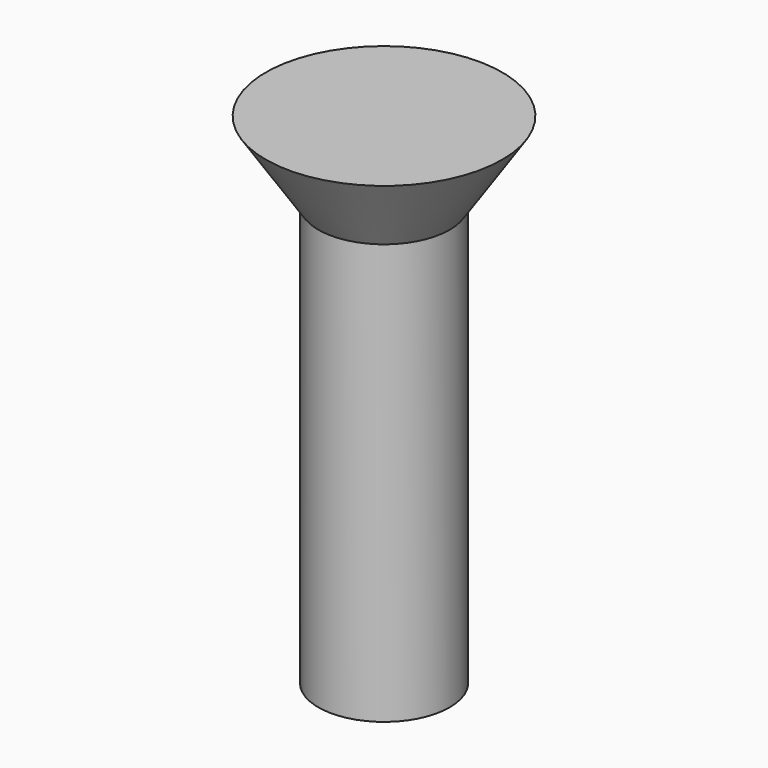
from build123d import *

# Parameters (mm, degrees)
CYLINDER011_R                   = 2.5
CYLINDER011_DEPTH               = 16
FUSION001018017_PLACEMENT_ANGLE = 180
CLONE024_PLACEMENT_ANGLE        = 180


with BuildPart() as cone003:
    # Cone003 → Cone003 (revolve)
    with BuildSketch(Plane(origin=(0, 0, -3), x_dir=(1, 0, 0), z_dir=(0, -1, 0))):
        Polygon((0, 0), (4.5, 0), (2.5, 3), (0, 3), align=None)
    revolve(axis=Axis((0, 0, -3), (0, 0, 1)))


with BuildPart() as obj1:
    # Cylinder011 → Cylinder011 (new body)
    with BuildSketch(Plane.XY):
        Circle(CYLINDER011_R)
    extrude(amount=CYLINDER011_DEPTH)

    # Fusion001018017: union Cone003
    add(cone003.part)


with BuildPart() as obj1_1:
    # Fusion001018017 placement: moved
    add(obj1.part.moved(Location((45, 15, 21))).rotate(Axis((45, 15, 21), (0, 1, 0)), FUSION001018017_PLACEMENT_ANGLE))


with BuildPart() as obj1_2:
    # Clone024 placement: moved
    add(obj1_1.part.moved(Location((90, 270, 0))).rotate(Axis((90, 270, 0), (0, 0, 1)), CLONE024_PLACEMENT_ANGLE))


with BuildPart() as obj1_3:
    # Clone032 placement: moved
    add(obj1_2.part.moved(Location((270, 0, 0))))


with BuildPart() as obj1_4:
    # Clone033 placement: moved
    add(obj1_3.part.moved(Location((-271, -120, 5))))


solid = obj1_4.part
